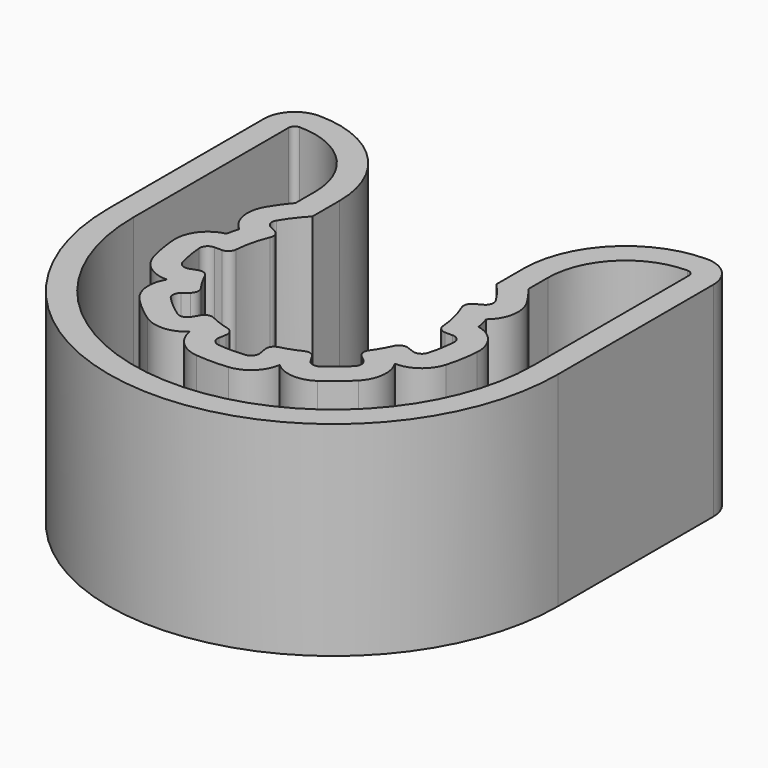
from build123d import *

# Parameters (mm, degrees)
F1_DEPTH = 10
F2_T     = -1.2


with BuildPart() as f1:
    # F0 (on Top) → F1 (new body)
    with BuildSketch(Plane.XY):
        with BuildLine():
            ThreePointArc((-5.066449, 0.370803), (-4.939368, 1.187032), (-4.681679, 1.971873))
            ThreePointArc((-4.681679, 1.971873), (-4.674597, 2.264385), (-4.868556, 2.483458))
            Line((-4.868556, 2.483458), (-5.198977, 2.652007))
            ThreePointArc((-5.198977, 2.652007), (-5.401697, 2.897981), (-5.360275, 3.214024))
            ThreePointArc((-5.360275, 3.214024), (-4.962027, 3.800103), (-4.5, 4.337338))
            Line((-4.5, 4.337338), (-4.5, 6))
            ThreePointArc((-4.5, 6), (-5.964466, 9.535534), (-9.5, 11))
            ThreePointArc((-9.5, 11), (-10.56066, 10.56066), (-11, 9.5))
            Line((-11, 9.5), (-11, 0))
            ThreePointArc((-11, 0), (0, -11), (11, 0))
            Line((11, 0), (11, 9.5))
            ThreePointArc((11, 9.5), (10.56066, 10.56066), (9.5, 11))
            ThreePointArc((9.5, 11), (5.964466, 9.535534), (4.5, 6))
            Line((4.5, 6), (4.5, 4.337338))
            ThreePointArc((4.5, 4.337338), (4.941382, 3.82691), (5.325163, 3.271872))
            ThreePointArc((5.325163, 3.271872), (5.370003, 2.956296), (5.169959, 2.708141))
            Line((5.169959, 2.708141), (4.841382, 2.536025))
            ThreePointArc((4.841382, 2.536025), (4.649807, 2.314864), (4.660055, 2.022447))
            ThreePointArc((4.660055, 2.022447), (4.932869, 1.213755), (5.066449, 0.370803))
            ThreePointArc((5.066449, 0.370803), (5.193058, 0.107016), (5.465382, 0))
            Line((5.465382, 0), (5.836309, 0))
            ThreePointArc((5.836309, 0), (6.128661, -0.126998), (6.235373, -0.42735))
            ThreePointArc((6.235373, -0.42735), (6.155048, -1.085301), (6.005496, -1.731045))
            ThreePointArc((6.005496, -1.731045), (5.802494, -1.976786), (5.484336, -1.996135))
            Line((5.484336, -1.996135), (5.135779, -1.869271))
            ThreePointArc((5.135779, -1.869271), (4.843276, -1.876693), (4.634083, -2.081268))
            ThreePointArc((4.634083, -2.081268), (4.399409, -2.54), (4.119473, -2.972599))
            ThreePointArc((4.119473, -2.972599), (4.046902, -3.256054), (4.186725, -3.51308))
            Line((4.186725, -3.51308), (4.470872, -3.751507))
            ThreePointArc((4.470872, -3.751507), (4.613194, -4.036714), (4.501877, -4.33539))
            ThreePointArc((4.501877, -4.33539), (4.017423, -4.787778), (3.487783, -5.186316))
            ThreePointArc((3.487783, -5.186316), (3.174314, -5.244077), (2.918154, -5.054392))
            Line((2.918154, -5.054392), (2.732691, -4.73316))
            ThreePointArc((2.732691, -4.73316), (2.50385, -4.550828), (2.2121, -4.573075))
            ThreePointArc((2.2121, -4.573075), (1.737462, -4.773639), (1.244949, -4.925089))
            ThreePointArc((1.244949, -4.925089), (1.007156, -5.09558), (0.949054, -5.382351))
            Line((0.949054, -5.382351), (1.013464, -5.747642))
            ThreePointArc((1.013464, -5.747642), (0.939162, -6.057606), (0.661903, -6.214852))
            ThreePointArc((0.661903, -6.214852), (0, -6.25), (-0.661903, -6.214852))
            ThreePointArc((-0.661903, -6.214852), (-0.939162, -6.057606), (-1.013464, -5.747642))
            Line((-1.013464, -5.747642), (-0.949054, -5.382351))
            ThreePointArc((-0.949054, -5.382351), (-1.007156, -5.09558), (-1.244949, -4.925089))
            ThreePointArc((-1.244949, -4.925089), (-1.737462, -4.773639), (-2.2121, -4.573075))
            ThreePointArc((-2.2121, -4.573075), (-2.50385, -4.550828), (-2.732691, -4.73316))
            Line((-2.732691, -4.73316), (-2.918154, -5.054392))
            ThreePointArc((-2.918154, -5.054392), (-3.174314, -5.244077), (-3.487783, -5.186316))
            ThreePointArc((-3.487783, -5.186316), (-4.017423, -4.787778), (-4.501877, -4.33539))
            ThreePointArc((-4.501877, -4.33539), (-4.613194, -4.036714), (-4.470872, -3.751507))
            Line((-4.470872, -3.751507), (-4.186725, -3.51308))
            ThreePointArc((-4.186725, -3.51308), (-4.046902, -3.256054), (-4.119473, -2.972599))
            ThreePointArc((-4.119473, -2.972599), (-4.399409, -2.54), (-4.634083, -2.081268))
            ThreePointArc((-4.634083, -2.081268), (-4.843276, -1.876693), (-5.135779, -1.869271))
            Line((-5.135779, -1.869271), (-5.484336, -1.996135))
            ThreePointArc((-5.484336, -1.996135), (-5.802494, -1.976786), (-6.005496, -1.731045))
            ThreePointArc((-6.005496, -1.731045), (-6.155048, -1.085301), (-6.235373, -0.42735))
            ThreePointArc((-6.235373, -0.42735), (-6.128661, -0.126998), (-5.836309, 0))
            Line((-5.836309, 0), (-5.465382, 0))
            ThreePointArc((-5.465382, 0), (-5.193058, 0.107016), (-5.066449, 0.370803))
        make_face()
    extrude(amount=F1_DEPTH)

    # F2
    f2_openings = [f1.faces().sort_by_distance(p)[0] for p in [
        (-1.187768, -6.244675, 10),
        (-1.187768, -6.244675, 0),
    ]]
    offset(amount=F2_T, openings=f2_openings)


solid = f1.part
